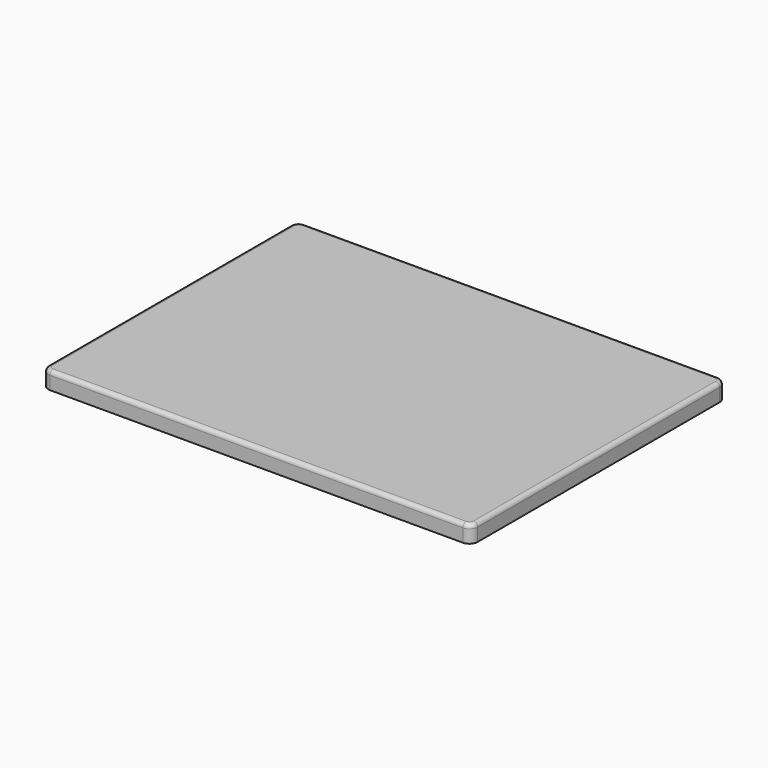
from build123d import *

# Parameters (mm, degrees)
F0_W     = 525
F0_H     = 390
F1_DEPTH = 21
F2_R     = 10
F3_R     = 5


with BuildPart() as f1:
    # F0 (on Top) → F1 (new body)
    with BuildSketch(Plane.XY):
        Rectangle(F0_W, F0_H)
    extrude(amount=F1_DEPTH)

    # F2
    f2_edges = [f1.edges().sort_by_distance(p)[0] for p in [
        (262.5, -195, 10.5),
        (262.5, 195, 10.5),
        (-262.5, 195, 10.5),
        (-262.5, -195, 10.5),
    ]]
    fillet(f2_edges, radius=F2_R)

    # F3
    f3_edges = [f1.edges().sort_by_distance(p)[0] for p in [
        (262.5, 0, 21),
    ]]
    fillet(f3_edges, radius=F3_R)


solid = f1.part
